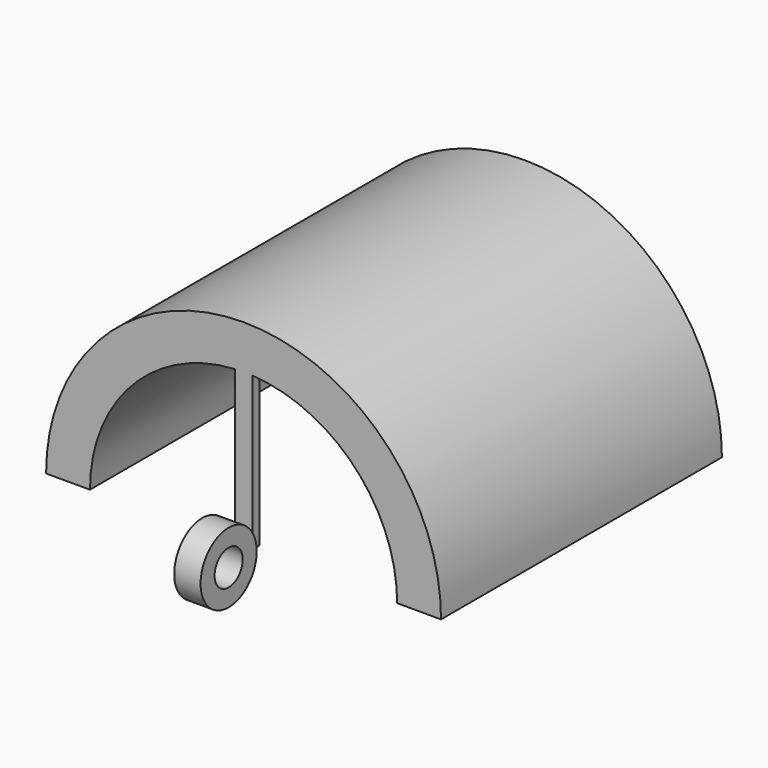
from build123d import *

# Parameters (mm, degrees)
F2_DEPTH = 3
F3_DEPTH = 80
F5_DEPTH = 2


with BuildPart() as f2:
    # F1 (on Right) → F2 (new body, symmetric)
    with BuildSketch(Plane.YZ):
        with BuildLine():
            ThreePointArc((-16, 0), (-8, -8), (0, 0))
            Line((0, 0), (-4, 0))
            ThreePointArc((-4, 0), (-8, -4), (-12, 0))
            Line((-12, 0), (-16, 0))
        make_face()
        with BuildLine():
            Line((-4, 0), (0, 0))
            ThreePointArc((0, 0), (-8, 8), (-16, 0))
            Line((-16, 0), (-12, 0))
            ThreePointArc((-12, 0), (-8, 4), (-4, 0))
        make_face()
    extrude(amount=F2_DEPTH, both=True)



with BuildPart() as f3:
    # F0 (on Front) → F3 (new body)
    with BuildSketch(Plane.XZ):
        with BuildLine():
            Line((35, 0), (45, 0))
            ThreePointArc((45, 0), (0, 45), (-45, 0))
            Line((-45, 0), (-35, 0))
            ThreePointArc((-35, 0), (-25.446021, 24.03123), (-2, 34.94281))
            ThreePointArc((-2, 34.94281), (0, 35), (2, 34.94281))
            ThreePointArc((2, 34.94281), (25.446021, 24.03123), (35, 0))
        make_face()
    extrude(amount=-F3_DEPTH)


with BuildPart() as f2_1:
    add(f2.part)

    add(f3.part)  # F5 merges F3
    # F4 (on Front) → F5 (join)
    with BuildSketch(Plane.XZ):
        with BuildLine():
            Line((2, 0), (2, 34.94281))
            ThreePointArc((2, 34.94281), (0, 35), (-2, 34.94281))
            Line((-2, 34.94281), (-2, 0))
            Line((-2, 0), (0, 0))
            Line((0, 0), (2, 0))
        make_face()
    extrude(amount=-F5_DEPTH)


solid = f2_1.part
